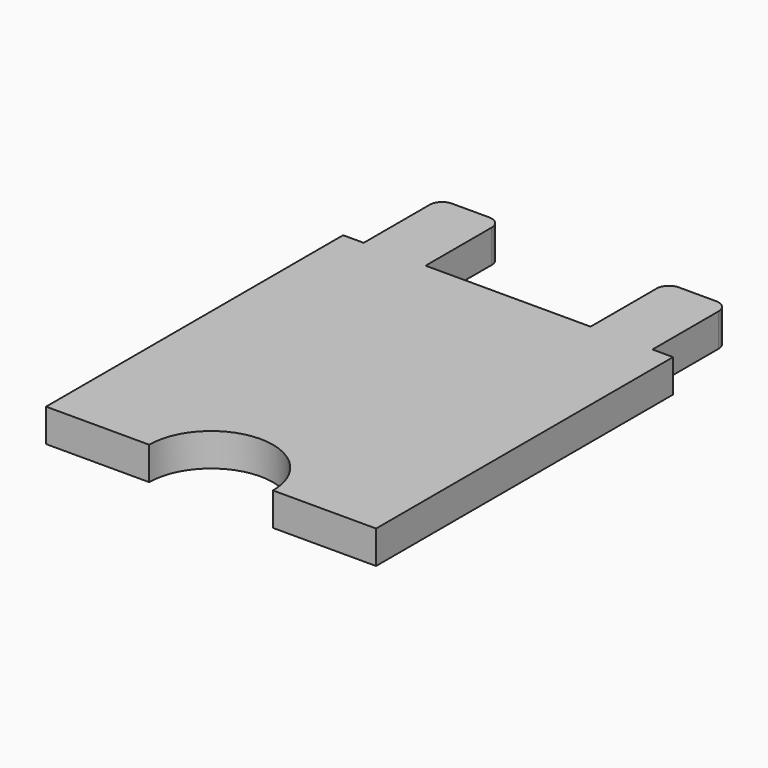
from build123d import *

# Parameters (mm, degrees)
F1_DEPTH = 8


with BuildPart() as f1:
    # F0 (on Top) → F1 (new body)
    with BuildSketch(Plane.XY):
        with BuildLine():
            Line((-34.218354, -1.032101), (-39.218354, -1.032101))
            Line((-39.218354, -1.032101), (-39.218354, -91.032101))
            Line((-39.218354, -91.032101), (-14.218354, -91.032101))
            ThreePointArc((-14.218354, -91.032101), (0.781646, -76.032101), (15.781646, -91.032101))
            Line((15.781646, -91.032101), (40.781646, -91.032101))
            Line((40.781646, -91.032101), (40.781646, -1.032101))
            Line((40.781646, -1.032101), (35.781646, -1.032101))
            Line((35.781646, -1.032101), (35.781646, 18.967899))
            ThreePointArc((35.781646, 18.967899), (34.902966, 21.089219), (32.781646, 21.967899))
            Line((32.781646, 21.967899), (23.781646, 21.967899))
            ThreePointArc((23.781646, 21.967899), (21.660325, 21.089219), (20.781646, 18.967899))
            Line((20.781646, 18.967899), (20.781646, -1.032101))
            Line((20.781646, -1.032101), (-17.203856, -1.032101))
            Line((-17.203856, -1.032101), (-19.218354, -1.032101))
            Line((-19.218354, -1.032101), (-19.218354, 18.967899))
            ThreePointArc((-19.218354, 18.967899), (-20.097034, 21.089219), (-22.218354, 21.967899))
            Line((-22.218354, 21.967899), (-31.218354, 21.967899))
            ThreePointArc((-31.218354, 21.967899), (-33.339675, 21.089219), (-34.218354, 18.967899))
            Line((-34.218354, 18.967899), (-34.218354, -1.032101))
        make_face()
    extrude(amount=F1_DEPTH)


solid = f1.part
